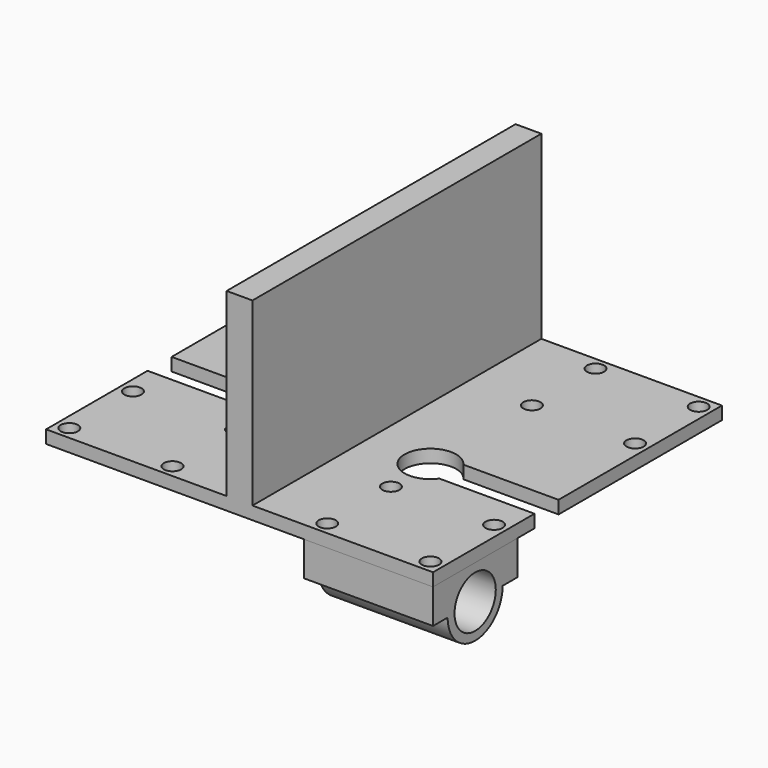
from build123d import *

# Parameters (mm, degrees)
F1_DEPTH = 42
F3_DEPTH = 45.001
F4_R     = 6
F5_DEPTH = 30
F6_R     = 1.15
F7_DEPTH = 16.001
F8_R     = 2
F9_DEPTH = 45.001


with BuildPart() as f1:
    # F0 (on Front) → F1 (new body, symmetric)
    with BuildSketch(Plane.XZ):
        Polygon((3, 45), (0, 45), (0, 0), (45, 0), (45, 3), (3, 3), align=None)
        Polygon((0, 0), (0, 45), (-3, 45), (-3, 3), (-45, 3), (-45, 0), align=None)
    extrude(amount=F1_DEPTH, both=True)

    # F2 (on face) → F3 (cut, through all)
    with BuildSketch(Plane(origin=(0, 0, 0), x_dir=(1, 0, 0), z_dir=(0, 0, -1))):
        with BuildLine():
            Line((45, 12.5), (22.873397, 12.5))
            ThreePointArc((22.873397, 12.5), (12, 9), (22.873397, 5.5))
            Line((22.873397, 5.5), (45, 5.5))
            Line((45, 5.5), (45, 12.5))
        make_face()
        with BuildLine():
            ThreePointArc((-22.873397, 5.5), (-12, 9), (-22.873397, 12.5))
            Line((-22.873397, 12.5), (-45, 12.5))
            Line((-45, 12.5), (-45, 5.5))
            Line((-45, 5.5), (-22.873397, 5.5))
        make_face()
    extrude(amount=-F3_DEPTH, mode=Mode.SUBTRACT)

    # F8 (on face) → F9 (cut, through all)
    with BuildSketch(Plane(origin=(0, 0, 0), x_dir=(1, 0, 0), z_dir=(0, 0, -1))):
        with Locations((18, 20.5)):
            Circle(F8_R)
        with Locations((18, 39)):
            Circle(F8_R)
        with Locations((42, 20.5)):
            Circle(F8_R)
        with Locations((42, 39)):
            Circle(F8_R)
        with Locations((18, -20.5)):
            Circle(F8_R)
        with Locations((18, -39)):
            Circle(F8_R)
        with Locations((42, -20.5)):
            Circle(F8_R)
        with Locations((42, -39)):
            Circle(F8_R)
        with Locations((-42, -39)):
            Circle(F8_R)
        with Locations((-42, -20.5)):
            Circle(F8_R)
        with Locations((-18, -39)):
            Circle(F8_R)
        with Locations((-18, -20.5)):
            Circle(F8_R)
        with Locations((-42, 39)):
            Circle(F8_R)
        with Locations((-42, 20.5)):
            Circle(F8_R)
        with Locations((-18, 39)):
            Circle(F8_R)
        with Locations((-18, 20.5)):
            Circle(F8_R)
    extrude(amount=-F9_DEPTH, mode=Mode.SUBTRACT)


with BuildPart() as f5:
    # F4 (on face) → F5 (new body)
    with BuildSketch(Plane.YZ.offset(45)):
        with BuildLine():
            Line((-17.5, 0), (-42, 0))
            Line((-42, 0), (-42, -8))
            Line((-42, -8), (-37.75, -8))
            ThreePointArc((-37.75, -8), (-29.75, -16), (-21.75, -8))
            Line((-21.75, -8), (-17.5, -8))
            Line((-17.5, -8), (-17.5, 0))
        make_face()
        with Locations((-29.75, -8)):
            Circle(F4_R, mode=Mode.SUBTRACT)
    extrude(amount=-F5_DEPTH)

    # F6 (on face) → F7 (cut, through all)
    with BuildSketch(Plane.XY):
        with Locations((18, -20.5)):
            Circle(F6_R)
        with Locations((18, -39)):
            Circle(F6_R)
        with Locations((42, -20.5)):
            Circle(F6_R)
        with Locations((42, -39)):
            Circle(F6_R)
    extrude(amount=-F7_DEPTH, mode=Mode.SUBTRACT)


solid = Compound([f1.part, f5.part])
